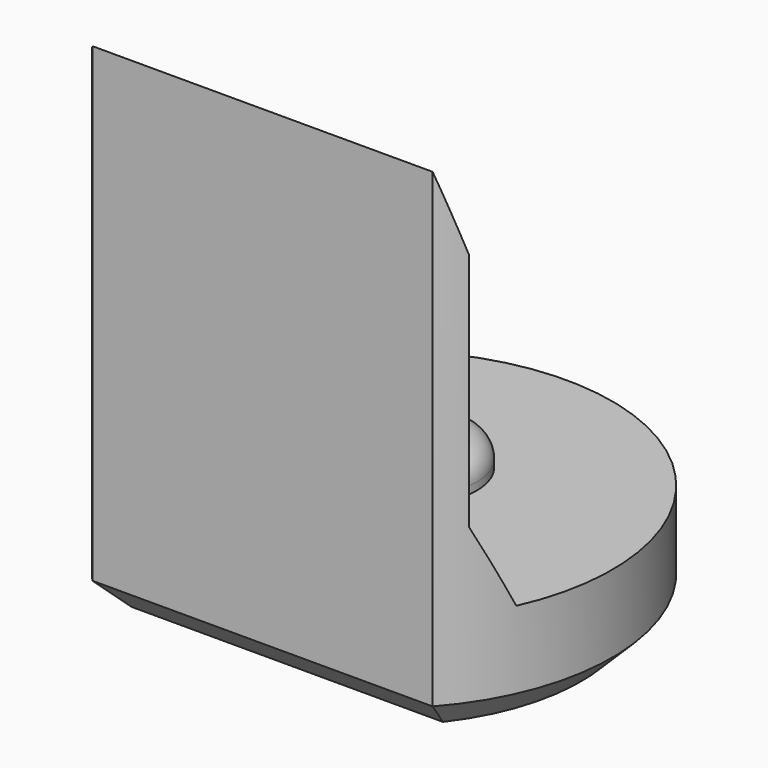
from build123d import *

# Parameters (mm, degrees)
PAD008_DEPTH         = 6.5
POCKET007_DEPTH      = 2.951
POCKET007_DEPTH_BACK = 2.951
SKETCH023_R          = 0.8
PAD009_DEPTH         = 0.4
FILLET001_R          = 0.3
CHAMFER007_SIZE      = 0.4


with BuildPart() as part:
    # Sketch022 → Pad008 (new body)
    with BuildSketch(Plane.XY):
        with BuildLine():
            ThreePointArc((2.2, -1.9653244007), (0, 2.95), (-2.2, -1.9653244007))
            Line((-2.2, -1.9653244007), (2.2, -1.9653244007))
        make_face()
    extrude(amount=PAD008_DEPTH)

    # Sketch024 → Pocket007 (cut, two sides)
    with BuildSketch(Plane.YZ) as pocket007_sk:
        Polygon((-1.97, 6.5), (-1.67, 5.5), (-1.67, 2.4), (-1.22, 1.4), (4, 1.4), (4, 6.5), align=None)
    extrude(amount=-POCKET007_DEPTH, mode=Mode.SUBTRACT)
    extrude(pocket007_sk.sketch, amount=POCKET007_DEPTH_BACK, mode=Mode.SUBTRACT)

    # Sketch023 (on Face7 of Pocket007) → Pad009 (join)
    with BuildSketch(Plane.XY.offset(1.4)):
        with Locations((0, 0.5)):
            Circle(SKETCH023_R)
    extrude(amount=PAD009_DEPTH)

    # Fillet001
    fillet001_edges = [part.edges().sort_by_distance(p)[0] for p in [
        (-0.8, 0.5, 1.8),
    ]]
    fillet(fillet001_edges, radius=FILLET001_R)

    # Chamfer007
    chamfer007_edges = [part.edges().sort_by_distance(p)[0] for p in [
        (0, 2.95, 0),
        (0, -1.965324, 0),
    ]]
    chamfer(chamfer007_edges, length=CHAMFER007_SIZE)


with BuildPart() as part_1:
    # Body086 placement: moved
    add(part.part.moved(Location((0, 36, 0))))


solid = part_1.part
